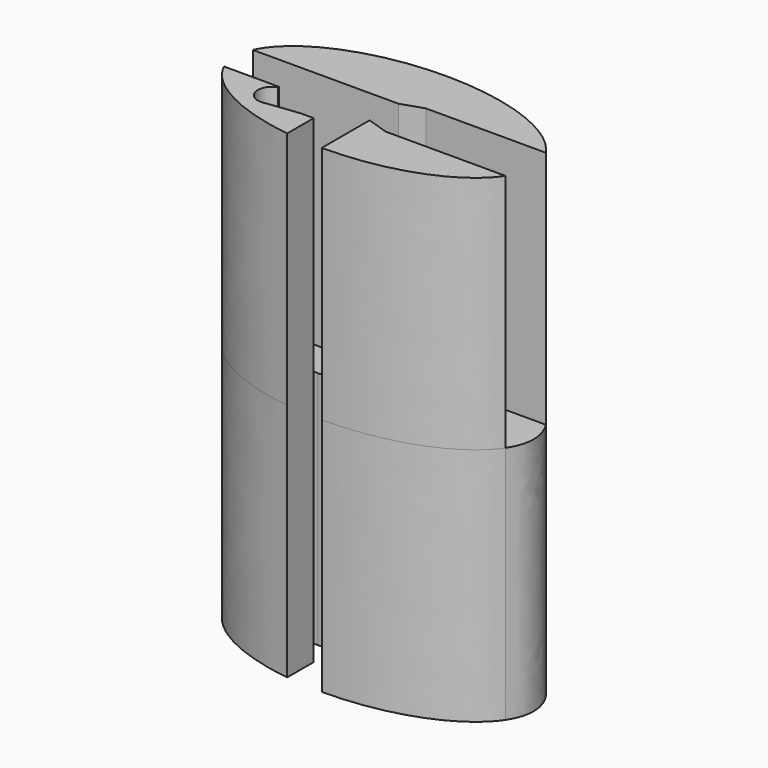
from build123d import *

# Parameters (mm, degrees)
F0_R     = 1.3
F1_DEPTH = 20
F2_DEPTH = 20
F3_DEPTH = 5


with BuildPart() as f1:
    # F0 (on Top) → F1 (new body)
    with BuildSketch(Plane.XY):
        with BuildLine():
            ThreePointArc((-7.18281, -3.909193), (-8.350454, -2.90793), (-7.573696, -1.580313))
            Line((-7.573696, -1.580313), (-7.573696, -1.5))
            Line((-7.573696, -1.5), (-12.162606, -1.5))
            add(Edge.make_bspline(
                [(-12.162606, -1.5), (-10.40903, -5.344737), (-3.038051, -6.305099)],
                knots=[0.232868, 0.232868, 0.232868, 1.325294, 1.325294, 1.325294], degree=2, weights=[1, 0.854498, 1]))
            Line((-3.038051, -6.305099), (-3.038051, -4.353841))
            Line((-3.038051, -4.353841), (-3.038051, -3.545245))
            Line((-3.038051, -3.545245), (-4.164727, -3.545245))
            ThreePointArc((-4.164727, -3.545245), (-4.346999, -3.582354), (-4.532958, -3.586717))
            Line((-4.532958, -3.586717), (-6.863885, -3.870381))
            ThreePointArc((-6.863885, -3.870381), (-7.022042, -3.900508), (-7.18281, -3.909193))
        make_face()
        with BuildLine():
            Line((-12.162606, -1.5), (-7.573696, -1.5))
            Line((-7.573696, -1.5), (-4.61644, -1.5))
            ThreePointArc((-4.61644, -1.5), (-4.464514, -1.488951), (-4.312587, -1.5))
            Line((-4.312587, -1.5), (0, -1.5))
            Line((0, -1.5), (1.807754, -2.1))
            Line((1.807754, -2.1), (11.829659, -2.1))
            add(Edge.make_bspline(
                [(11.829659, -2.1), (13.208327, 0), (11.829659, 2.1)],
                knots=[2.812614, 2.812614, 2.812614, 3.470572, 3.470572, 3.470572], degree=2, weights=[1, 0.946373, 1]))
            Line((11.829659, 2.1), (1.807754, 2.1))
            Line((1.807754, 2.1), (0, 1.5))
            Line((0, 1.5), (-12.162606, 1.5))
            add(Edge.make_bspline(
                [(-12.162606, 1.5), (-12.5, 0.76026), (-12.5, 0)],
                knots=[6.050317, 6.050317, 6.050317, 6.283185, 6.283185, 6.283185], degree=2, weights=[1, 0.993229, 1]))
            add(Edge.make_bspline(
                [(-12.5, 0), (-12.5, -0.76026), (-12.162606, -1.5)],
                knots=[0, 0, 0, 0.232868, 0.232868, 0.232868], degree=2, weights=[1, 0.993229, 1]))
        make_face()
        with Locations((4.42459, 0)):
            Circle(F0_R, mode=Mode.SUBTRACT)
        with BuildLine():
            add(Edge.make_bspline(
                [(11.829659, 2.1), (-2.165829, 23.418059), (-12.162606, 1.5)],
                knots=[3.470572, 3.470572, 3.470572, 6.050317, 6.050317, 6.050317], degree=2, weights=[1, 0.277243, 1]))
            Line((-12.162606, 1.5), (0, 1.5))
            Line((0, 1.5), (1.807754, 2.1))
            Line((1.807754, 2.1), (11.829659, 2.1))
        make_face()
        with BuildLine():
            Line((0, -1.5), (0, -6.5))
            add(Edge.make_bspline(
                [(0, -6.5), (8.941021, -6.5), (11.829659, -2.1)],
                knots=[1.570796, 1.570796, 1.570796, 2.812614, 2.812614, 2.812614], degree=2, weights=[1, 0.81335, 1]))
            Line((11.829659, -2.1), (1.807754, -2.1))
            Line((1.807754, -2.1), (0, -1.5))
        make_face()
    extrude(amount=-F1_DEPTH)

    # F0 (on Top) → F2 (join)
    with BuildSketch(Plane.XY):
        with BuildLine():
            ThreePointArc((-7.18281, -3.909193), (-8.350454, -2.90793), (-7.573696, -1.580313))
            Line((-7.573696, -1.580313), (-7.573696, -1.5))
            Line((-7.573696, -1.5), (-12.162606, -1.5))
            add(Edge.make_bspline(
                [(-12.162606, -1.5), (-10.40903, -5.344737), (-3.038051, -6.305099)],
                knots=[0.232868, 0.232868, 0.232868, 1.325294, 1.325294, 1.325294], degree=2, weights=[1, 0.854498, 1]))
            Line((-3.038051, -6.305099), (-3.038051, -4.353841))
            Line((-3.038051, -4.353841), (-3.038051, -3.545245))
            Line((-3.038051, -3.545245), (-4.164727, -3.545245))
            ThreePointArc((-4.164727, -3.545245), (-4.346999, -3.582354), (-4.532958, -3.586717))
            Line((-4.532958, -3.586717), (-6.863885, -3.870381))
            ThreePointArc((-6.863885, -3.870381), (-7.022042, -3.900508), (-7.18281, -3.909193))
        make_face()
        with BuildLine():
            add(Edge.make_bspline(
                [(11.829659, 2.1), (-2.165829, 23.418059), (-12.162606, 1.5)],
                knots=[3.470572, 3.470572, 3.470572, 6.050317, 6.050317, 6.050317], degree=2, weights=[1, 0.277243, 1]))
            Line((-12.162606, 1.5), (0, 1.5))
            Line((0, 1.5), (1.807754, 2.1))
            Line((1.807754, 2.1), (11.829659, 2.1))
        make_face()
        with BuildLine():
            Line((0, -1.5), (0, -6.5))
            add(Edge.make_bspline(
                [(0, -6.5), (8.941021, -6.5), (11.829659, -2.1)],
                knots=[1.570796, 1.570796, 1.570796, 2.812614, 2.812614, 2.812614], degree=2, weights=[1, 0.81335, 1]))
            Line((11.829659, -2.1), (1.807754, -2.1))
            Line((1.807754, -2.1), (0, -1.5))
        make_face()
    extrude(amount=F2_DEPTH)

    # F0 (on Top) → F3 (join)
    with BuildSketch(Plane.XY):
        with Locations((4.42459, 0)):
            Circle(F0_R)
    extrude(amount=-F3_DEPTH)


solid = f1.part
